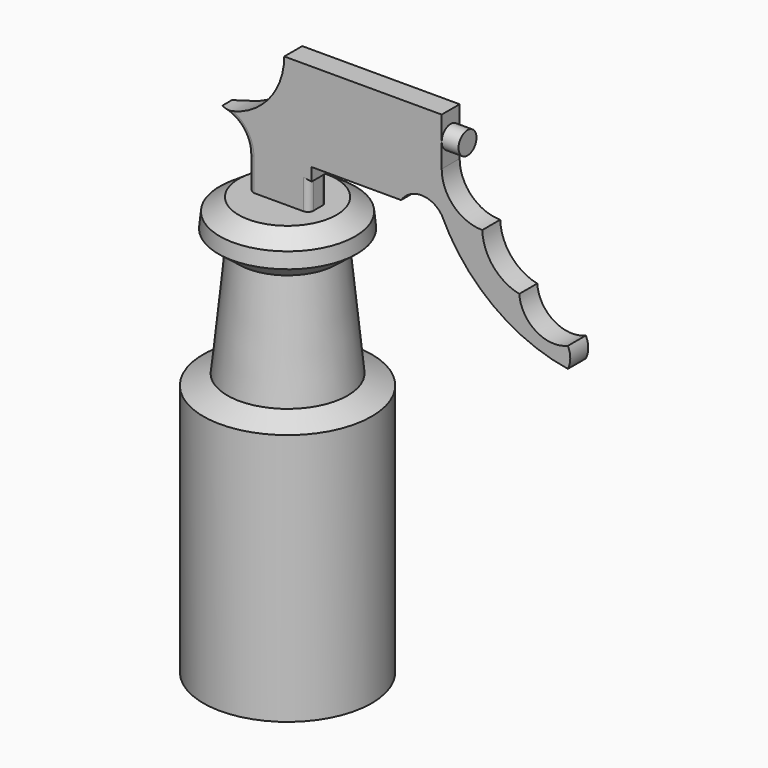
from build123d import *

# Parameters (mm, degrees)
F3_DEPTH      = 5.08
F3_DEPTH_BACK = 5.08
F4_R          = 5.08
F5_DEPTH      = 7.62
F6_R          = 2.54


with BuildPart() as f1:
    # F0 (on Front) → F1 (revolve)
    with BuildSketch(Plane.XZ):
        Polygon((-38.1, 0), (0, 0), (0, 114.3), (-10.86447, 119.110203), (-15.956199, 169.654384), (-6.764589, 176.87637), (-7.448647, 183.666825), (-15.956199, 189.41646), (-38.1, 189.41646), (-38.1, 176.226493), (-38.1, 114.3), align=None)
    revolve(axis=Axis((-38.1, 0, 57.15), (0, 0, -1)))


with BuildPart() as f3:
    # F2 (on Front) → F3 (new body, two sides)
    with BuildSketch(Plane.XZ) as f3_sk:
        with BuildLine():
            Line((-51.778354, 204.004637), (-51.778354, 189.41646))
            Line((-51.778354, 189.41646), (-24.343233, 189.41646))
            Line((-24.343233, 189.41646), (-24.343233, 202.601971))
            Line((-24.343233, 202.601971), (-23.142859, 202.42082))
            Line((-23.142859, 202.42082), (-23.142859, 208.261922))
            Line((-23.142859, 208.261922), (17.380379, 208.261922))
            ThreePointArc((17.380379, 208.261922), (26.565524, 213.17765), (35.750668, 208.261922))
            ThreePointArc((35.750668, 208.261922), (58.993407, 179.786642), (92.874424, 165.533812))
            ThreePointArc((92.874424, 165.533812), (93.958588, 170.126387), (92.874424, 174.718962))
            ThreePointArc((92.874424, 174.718962), (78.401587, 175.859285), (70.87034, 188.270718))
            ThreePointArc((70.87034, 188.270718), (59.047853, 195.377632), (54.120939, 208.261922))
            ThreePointArc((54.120939, 208.261922), (41.131196, 213.64245), (35.750668, 226.632193))
            Line((35.750668, 226.632193), (35.750668, 241.22037))
            Line((35.750668, 241.22037), (35.750668, 248.30944))
            Line((35.750668, 248.30944), (-35.508399, 248.30944))
            ThreePointArc((-35.508399, 248.30944), (-44.311775, 227.107968), (-65.408304, 218.05599))
            ThreePointArc((-65.408304, 218.05599), (-55.74565, 213.792589), (-51.778354, 204.004637))
        make_face()
    extrude(amount=F3_DEPTH)
    extrude(f3_sk.sketch, amount=-F3_DEPTH_BACK)

    # F4 (on face) → F5 (join)
    with BuildSketch(Plane.YZ.offset(35.750668)):
        with Locations((0, 237.470816)):
            Circle(F4_R)
    extrude(amount=F5_DEPTH)

    # F6
    f6_edges = [f3.edges().sort_by_distance(p)[0] for p in [
        (-51.778354, -5.08, 196.710548),
        (-51.778354, 0, 189.41646),
        (-51.778354, 5.08, 196.710548),
        (-51.778354, 0, 204.004637),
        (-24.343233, 5.08, 196.009215),
        (-24.343233, -5.08, 196.009215),
    ]]
    fillet(f6_edges, radius=F6_R)


solid = Compound([f1.part, f3.part])
